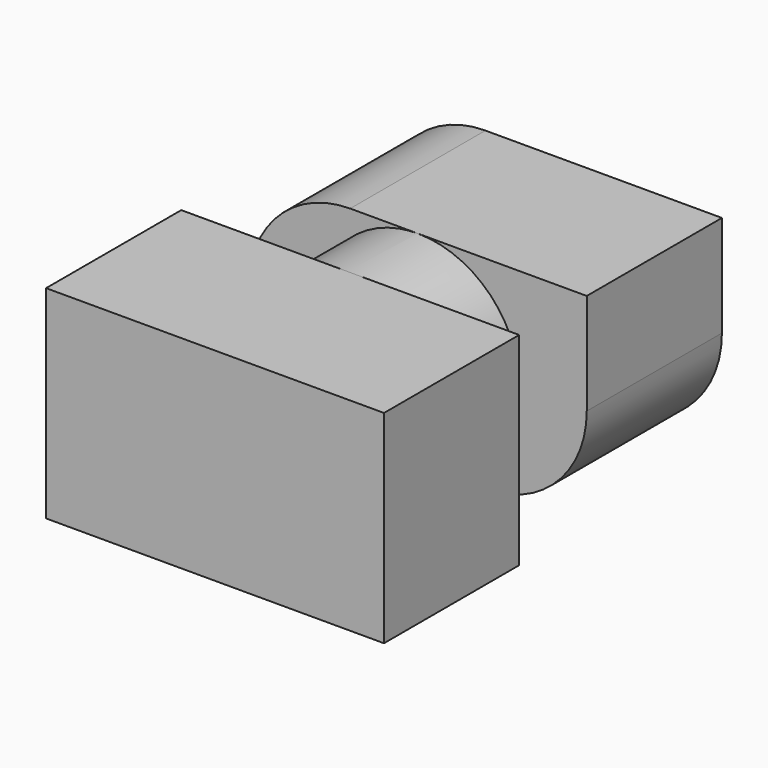
from build123d import *

# Parameters (mm, degrees)
BOX001_W                 = 10
BOX001_H                 = 5
BOX001_DEPTH             = 6
CYLINDER_R               = 3
CYLINDER_DEPTH           = 2.5
CYLINDER_PLACEMENT_ANGLE = 89.98
BOX_W                    = 10
BOX_H                    = 5
BOX_DEPTH                = 6
FILLET_R                 = 3


with BuildPart() as cube001:
    # Box001 → Box001 (new body)
    with BuildSketch(Plane(origin=(-5, -7.5, 0), x_dir=(1, 0, 0), z_dir=(0, 0, 1))):
        with Locations((5, 2.5)):
            Rectangle(BOX001_W, BOX001_H)
    extrude(amount=BOX001_DEPTH)


with BuildPart() as cylinder:
    # Cylinder → Cylinder (new body)
    with BuildSketch(Plane.XY):
        Circle(CYLINDER_R)
    extrude(amount=CYLINDER_DEPTH)


with BuildPart() as cylinder_1:
    # Cylinder placement: moved
    add(cylinder.part.moved(Location((0, 0.001047, 3))).rotate(Axis((0, 0.001047, 3), (1, 0, 0)), CYLINDER_PLACEMENT_ANGLE))


with BuildPart() as fusion:
    # Box → Box (new body)
    with BuildSketch(Plane(origin=(-5, 0, 0), x_dir=(1, 0, 0), z_dir=(0, 0, 1))):
        with Locations((5, 2.5)):
            Rectangle(BOX_W, BOX_H)
    extrude(amount=BOX_DEPTH)

    # Fillet
    fillet_edges = [fusion.edges().sort_by_distance(p)[0] for p in [
        (-5, 2.5, 6),
        (5, 2.5, 0),
    ]]
    fillet(fillet_edges, radius=FILLET_R)

    # Fusion: union Cube001, Cylinder
    add(cube001.part)
    add(cylinder_1.part)


solid = fusion.part
